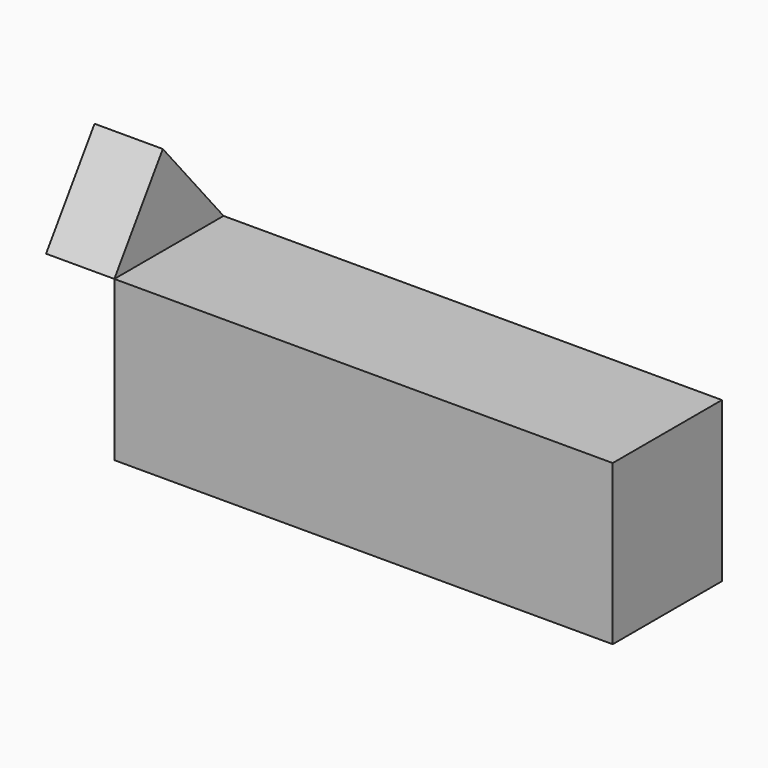
from build123d import *

# Parameters (mm, degrees)
F0_W     = 185.474456
F0_H     = 59.369163
F1_DEPTH = 50.8
F3_DEPTH = 25.4


with BuildPart() as f1:
    # F0 (on Front) → F1 (new body)
    with BuildSketch(Plane.XZ):
        with Locations((-20.800881, 1.51673)):
            Rectangle(F0_W, F0_H)
    extrude(amount=F1_DEPTH)


with BuildPart() as f3:
    # F2 (on face) → F3 (new body)
    with BuildSketch(Plane(origin=(-113.538109, 0, 0), x_dir=(0, -1, 0), z_dir=(-1, 0, 0))):
        Polygon((28.255278, 64.62346), (0, 31.201312), (50.8, 31.201312), align=None)
    extrude(amount=F3_DEPTH)


solid = Compound([f1.part, f3.part])
